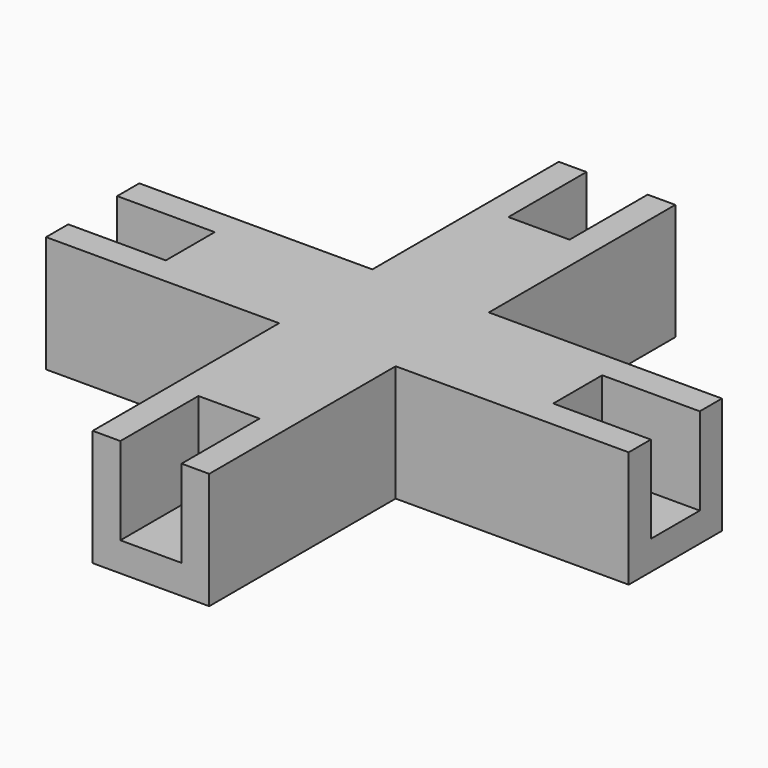
from build123d import *

# Parameters (mm, degrees)
PAD325_DEPTH            = 1
PAD326_DEPTH            = 3
PAD327_DEPTH            = 3
BODY055_PLACEMENT_ANGLE = 180


with BuildPart() as part:
    # Sketch482 → Pad325 (new body)
    with BuildSketch(Plane.XY.offset(-28)):
        Polygon((-2, 2), (-2, 10), (2, 10), (2, 2), (10, 2), (10, -2), (2, -2), (2, -10), (-2, -10), (-2, -2), (-10, -2), (-10, 2), align=None)
    extrude(amount=PAD325_DEPTH)

    # Sketch483 (on Face13 of Pad325) → Pad326 (join)
    with BuildSketch(Plane(origin=(0, 0, -28), x_dir=(1, 0, 0), z_dir=(0, 0, -1))):
        Polygon((-2, 10), (-2, 2), (-10, 2), (-10, 1.05), (-1.05, 1.05), (-1.05, 10), align=None)
        Polygon((-10, -2), (-2, -2), (-2, -10), (-1.05, -10), (-1.05, -1.05), (-10, -1.05), align=None)
        Polygon((2, -10), (2, -2), (10, -2), (10, -1.05), (1.05, -1.05), (1.05, -10), align=None)
        Polygon((10, 2), (2, 2), (2, 10), (1.05, 10), (1.05, 1.05), (10, 1.05), align=None)
    extrude(amount=PAD326_DEPTH)

    # Sketch484 (on Face3 of Pad326) → Pad327 (join)
    with BuildSketch(Plane(origin=(0, 0, -28), x_dir=(1, 0, 0), z_dir=(0, 0, -1))):
        Polygon((-6.65, 1.05), (-6.65, -1.05), (-1.05, -1.05), (-1.05, -6.65), (1.05, -6.65), (1.05, -1.05), (6.65, -1.05), (6.65, 1.05), (1.05, 1.05), (1.05, 6.65), (-1.05, 6.65), (-1.05, 1.05), align=None)
    extrude(amount=PAD327_DEPTH)


with BuildPart() as part_1:
    # Body055 placement: moved
    add(part.part.moved(Location((34.05, 73, -44))).rotate(Axis((34.05, 73, -44), (1, 0, 0)), BODY055_PLACEMENT_ANGLE))


solid = part_1.part
